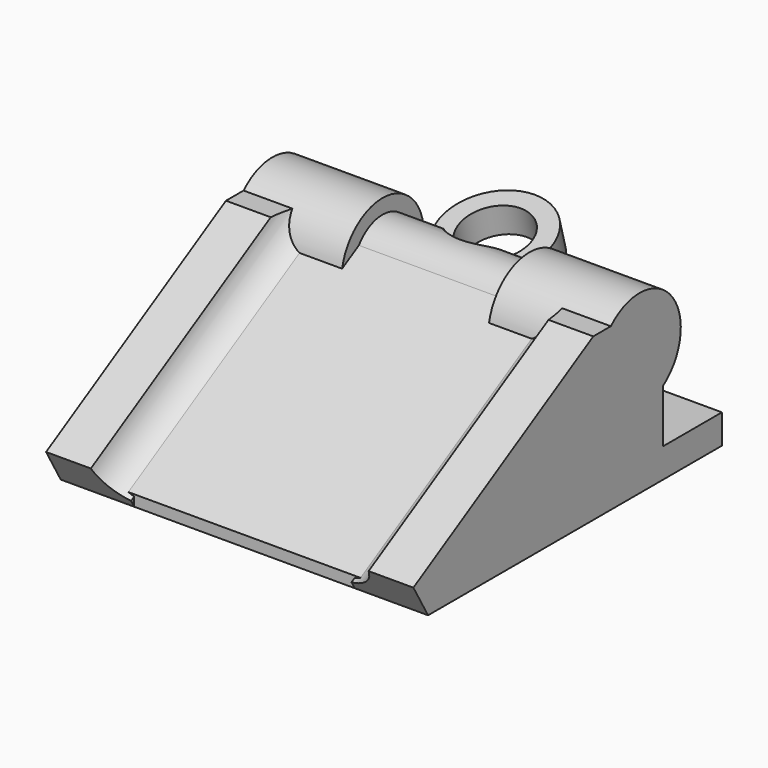
from build123d import *

# Parameters (mm, degrees)
CYLINDER004_R               = 7
CYLINDER004_DEPTH           = 15
CYLINDER005_R               = 7
CYLINDER005_DEPTH           = 15
BOX006_W                    = 50
BOX006_H                    = 10
BOX006_DEPTH                = 4
CYLINDER007_R               = 4.5
CYLINDER007_DEPTH           = 4
CYLINDER007_PLACEMENT_ANGLE = 15
CYLINDER006_R               = 7
CYLINDER006_DEPTH           = 4
CYLINDER006_PLACEMENT_ANGLE = 15
BOX005_W                    = 10
BOX005_H                    = 10
BOX005_DEPTH                = 10
CYLINDER002_R               = 5
CYLINDER002_DEPTH           = 45
CYLINDER002_PLACEMENT_ANGLE = 60
BOX003_W                    = 10
BOX003_H                    = 40
BOX003_DEPTH                = 5
BOX003_PLACEMENT_ANGLE      = 30
CYLINDER003_R               = 6
CYLINDER003_DEPTH           = 20
CYLINDER003_PLACEMENT_ANGLE = 25
CYLINDER_R                  = 5
CYLINDER_DEPTH              = 50
BOX001_W                    = 50
BOX001_H                    = 40
BOX001_DEPTH                = 17
BOX001_PLACEMENT_ANGLE      = 30
BOX_W                       = 50
BOX_H                       = 40
BOX_DEPTH                   = 20
BOX004_W                    = 10
BOX004_H                    = 10
BOX004_DEPTH                = 10
CYLINDER001_R               = 5
CYLINDER001_DEPTH           = 45
CYLINDER001_PLACEMENT_ANGLE = 60
BOX002_W                    = 10
BOX002_H                    = 40
BOX002_DEPTH                = 5
BOX002_PLACEMENT_ANGLE      = 30


with BuildPart() as cylinder004:
    # Cylinder004 → Cylinder004 (new body)
    with BuildSketch(Plane(origin=(0, 36, 17), x_dir=(0, 0, -1), z_dir=(1, 0, 0))):
        Circle(CYLINDER004_R)
    extrude(amount=CYLINDER004_DEPTH)


with BuildPart() as cylinder005:
    # Cylinder005 → Cylinder005 (new body)
    with BuildSketch(Plane(origin=(35, 36, 17), x_dir=(0, 0, -1), z_dir=(1, 0, 0))):
        Circle(CYLINDER005_R)
    extrude(amount=CYLINDER005_DEPTH)


with BuildPart() as cube006:
    # Box006 → Box006 (new body)
    with BuildSketch(Plane(origin=(0, 40, 0), x_dir=(1, 0, 0), z_dir=(0, 0, 1))):
        with Locations((25, 5)):
            Rectangle(BOX006_W, BOX006_H)
    extrude(amount=BOX006_DEPTH)


with BuildPart() as cylinder007:
    # Cylinder007 → Cylinder007 (new body)
    with BuildSketch(Plane.XY):
        Circle(CYLINDER007_R)
    extrude(amount=CYLINDER007_DEPTH)


with BuildPart() as cylinder007_1:
    # Cylinder007 placement: moved
    add(cylinder007.part.moved(Location((25, 43.7, 16.5))).rotate(Axis((25, 43.7, 16.5), (1, 0, 0)), CYLINDER007_PLACEMENT_ANGLE))


with BuildPart() as cut006:
    # Cylinder006 → Cylinder006 (new body)
    with BuildSketch(Plane.XY):
        Circle(CYLINDER006_R)
    extrude(amount=CYLINDER006_DEPTH)


with BuildPart() as cut006_1:
    # Cylinder006 placement: moved
    add(cut006.part.moved(Location((25, 43.7, 16.5))).rotate(Axis((25, 43.7, 16.5), (1, 0, 0)), CYLINDER006_PLACEMENT_ANGLE))

    # Cut006: cut Cylinder007
    add(cylinder007_1.part, mode=Mode.SUBTRACT)


with BuildPart() as cube005:
    # Box005 → Box005 (new body)
    with BuildSketch(Plane(origin=(40, 27, 22), x_dir=(1, 0, 0), z_dir=(0, 0, 1))):
        with Locations((5, 5)):
            Rectangle(BOX005_W, BOX005_H)
    extrude(amount=BOX005_DEPTH)


with BuildPart() as cylinder002:
    # Cylinder002 → Cylinder002 (new body)
    with BuildSketch(Plane.XY):
        Circle(CYLINDER002_R)
    extrude(amount=CYLINDER002_DEPTH)


with BuildPart() as cylinder002_1:
    # Cylinder002 placement: moved
    add(cylinder002.part.moved(Location((39, -5, 4))).rotate(Axis((39, -5, 4), (-1, 0, 0)), CYLINDER002_PLACEMENT_ANGLE))


with BuildPart() as cut004:
    # Box003 → Box003 (new body)
    with BuildSketch(Plane.XY):
        with Locations((5, 20)):
            Rectangle(BOX003_W, BOX003_H)
    extrude(amount=BOX003_DEPTH)


with BuildPart() as cut004_1:
    # Box003 placement: moved
    add(cut004.part.moved(Location((40, 0, 0))).rotate(Axis((40, 0, 0), (1, 0, 0)), BOX003_PLACEMENT_ANGLE))

    # Cut002: cut Cylinder002
    add(cylinder002_1.part, mode=Mode.SUBTRACT)

    # Cut004: cut Cube005
    add(cube005.part, mode=Mode.SUBTRACT)


with BuildPart() as cylinder003:
    # Cylinder003 → Cylinder003 (new body)
    with BuildSketch(Plane.XY):
        Circle(CYLINDER003_R)
    extrude(amount=CYLINDER003_DEPTH)


with BuildPart() as cylinder003_1:
    # Cylinder003 placement: moved
    add(cylinder003.part.moved(Location((25, 48, 12))).rotate(Axis((25, 48, 12), (1, 0, 0)), CYLINDER003_PLACEMENT_ANGLE))


with BuildPart() as cylinder:
    # Cylinder → Cylinder (new body)
    with BuildSketch(Plane(origin=(0, 36, 17), x_dir=(0, 0, -1), z_dir=(1, 0, 0))):
        Circle(CYLINDER_R)
    extrude(amount=CYLINDER_DEPTH)


with BuildPart() as cube001:
    # Box001 → Box001 (new body)
    with BuildSketch(Plane.XY):
        with Locations((25, 20)):
            Rectangle(BOX001_W, BOX001_H)
    extrude(amount=BOX001_DEPTH)


with BuildPart() as cube001_1:
    # Box001 placement: moved
    add(cube001.part.moved(Location((0, 0, 1.5))).rotate(Axis((0, 0, 1.5), (1, 0, 0)), BOX001_PLACEMENT_ANGLE))


with BuildPart() as cut005:
    # Box → Box (new body)
    with BuildSketch(Plane.XY):
        with Locations((25, 20)):
            Rectangle(BOX_W, BOX_H)
    extrude(amount=BOX_DEPTH)

    # Cut: cut Cube001
    add(cube001_1.part, mode=Mode.SUBTRACT)

    # Fusion: union Cylinder
    add(cylinder.part)

    # Cut005: cut Cylinder003
    add(cylinder003_1.part, mode=Mode.SUBTRACT)


with BuildPart() as cube004:
    # Box004 → Box004 (new body)
    with BuildSketch(Plane(origin=(0, 27, 22), x_dir=(1, 0, 0), z_dir=(0, 0, 1))):
        with Locations((5, 5)):
            Rectangle(BOX004_W, BOX004_H)
    extrude(amount=BOX004_DEPTH)


with BuildPart() as cylinder001:
    # Cylinder001 → Cylinder001 (new body)
    with BuildSketch(Plane.XY):
        Circle(CYLINDER001_R)
    extrude(amount=CYLINDER001_DEPTH)


with BuildPart() as cylinder001_1:
    # Cylinder001 placement: moved
    add(cylinder001.part.moved(Location((11, -5, 4))).rotate(Axis((11, -5, 4), (-1, 0, 0)), CYLINDER001_PLACEMENT_ANGLE))


with BuildPart() as fusion002:
    # Box002 → Box002 (new body)
    with BuildSketch(Plane.XY):
        with Locations((5, 20)):
            Rectangle(BOX002_W, BOX002_H)
    extrude(amount=BOX002_DEPTH)


with BuildPart() as fusion002_1:
    # Box002 placement: moved
    add(fusion002.part.rotate(Axis((0, 0, 0), (1, 0, 0)), BOX002_PLACEMENT_ANGLE))

    # Cut001: cut Cylinder001
    add(cylinder001_1.part, mode=Mode.SUBTRACT)

    # Cut003: cut Cube004
    add(cube004.part, mode=Mode.SUBTRACT)

    # Fusion001: union Cut004, Cut005
    add(cut004_1.part)
    add(cut005.part)

    # Fusion002: union Cylinder004, Cylinder005, Cube006, Cut006
    add(cylinder004.part)
    add(cylinder005.part)
    add(cube006.part)
    add(cut006_1.part)


solid = fusion002_1.part
